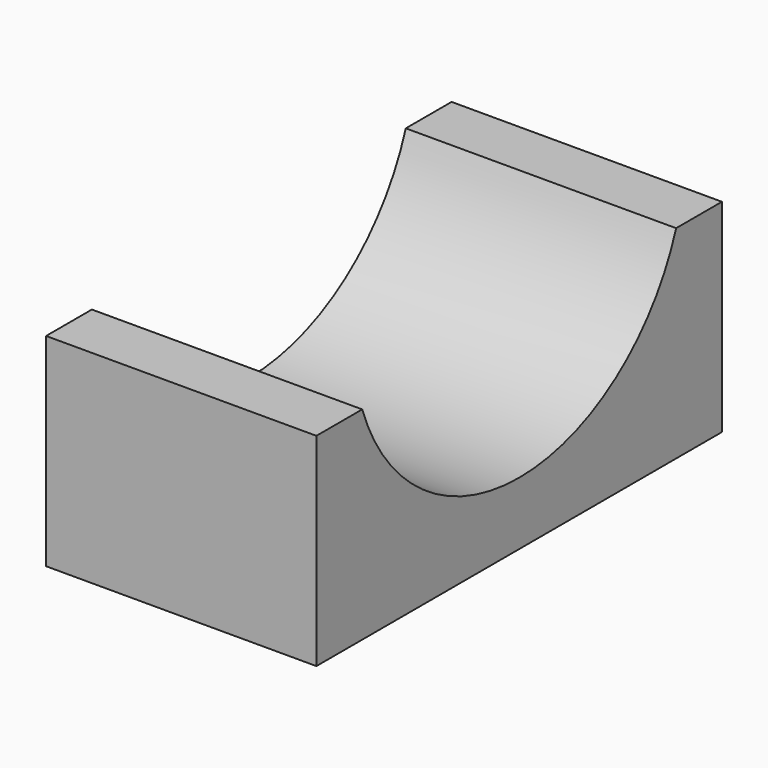
from build123d import *

# Parameters (mm, degrees)
F0_W     = 800
F0_H     = 1500
F1_DEPTH = 600
F2_R     = 614.1
F3_DEPTH = 800.001


with BuildPart() as f1:
    # F0 (on Top) → F1 (new body)
    with BuildSketch(Plane.XY):
        Rectangle(F0_W, F0_H)
    extrude(amount=F1_DEPTH)

    # F2 (on face) → F3 (cut, through all)
    with BuildSketch(Plane(origin=(-400, 0, 0), x_dir=(0, -1, 0), z_dir=(-1, 0, 0))):
        with Locations((0, 800)):
            Circle(F2_R)
    extrude(amount=-F3_DEPTH, mode=Mode.SUBTRACT)


solid = f1.part
